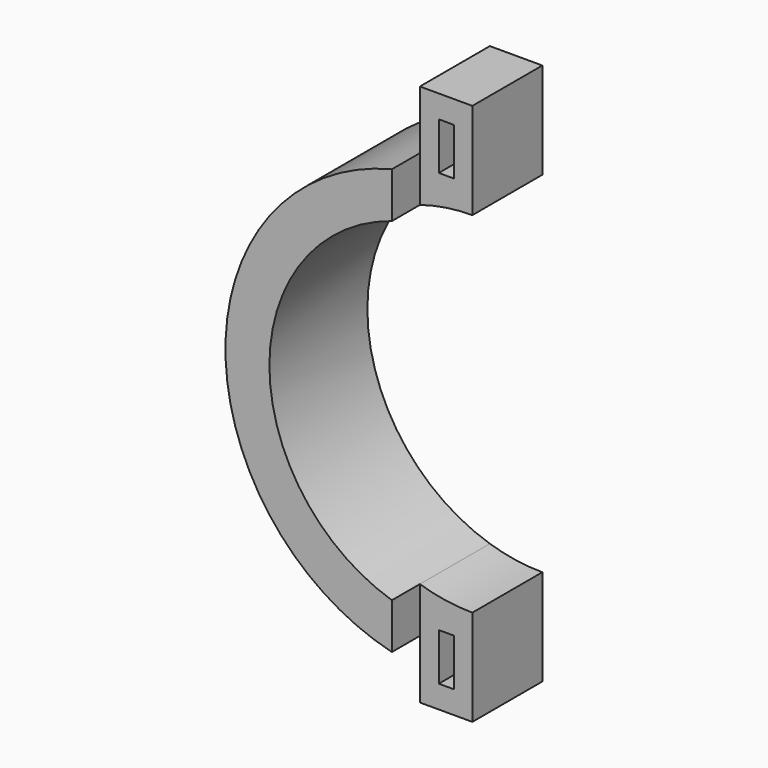
from build123d import *

# Parameters (mm, degrees)
F1_DEPTH = 12.7
F2_DEPTH = 17.78


with BuildPart() as f1:
    # F0 (on Front) → F1 (new body)
    with BuildSketch(Plane.XZ):
        with BuildLine():
            ThreePointArc((-7.62, 24.2300557169), (-3.8546455617, 25.1058102362), (0, 25.4))
            Line((0, 25.4), (0, 31.7809050116))
            ThreePointArc((0, 31.7809050116), (-1.3343592112, 31.7528803237), (-2.6663651224, 31.6688556849))
            Line((-2.6663651224, 31.6688556849), (-2.6663651224, 29.21))
            Line((-2.6663651224, 29.21), (-4.8713176511, 29.21))
            Line((-4.8713176511, 29.21), (-4.8713176511, 31.405352851))
            ThreePointArc((-4.8713176511, 31.405352851), (-6.251742675, 31.1599364069), (-7.62, 30.8538737172))
            Line((-7.62, 30.8538737172), (-7.62, 24.2300557169))
        make_face()
        with BuildLine():
            ThreePointArc((-7.62, -24.2300557169), (-25.400000003, 0), (-7.62, 24.2300557169))
            Line((-7.62, 24.2300557169), (-7.62, 30.8538737172))
            ThreePointArc((-7.62, 30.8538737172), (-31.7809050116, 0), (-7.62, -30.8538737172))
            Line((-7.62, -30.8538737172), (-7.62, -24.2300557169))
        make_face()
        with BuildLine():
            ThreePointArc((-2.6663651224, 31.6688556849), (-1.3343592112, 31.7528803237), (0, 31.7809050116))
            Line((0, 31.7809050116), (0, 39.37))
            Line((0, 39.37), (-7.62, 39.37))
            Line((-7.62, 39.37), (-7.62, 30.8538737172))
            ThreePointArc((-7.62, 30.8538737172), (-6.251742675, 31.1599364069), (-4.8713176511, 31.405352851))
            Line((-4.8713176511, 31.405352851), (-4.8713176511, 36.0698501384))
            Line((-4.8713176511, 36.0698501384), (-2.6663651224, 36.0698501384))
            Line((-2.6663651224, 36.0698501384), (-2.6663651224, 31.6688556849))
        make_face()
        with BuildLine():
            ThreePointArc((0, -25.4), (-3.8546455617, -25.1058102362), (-7.62, -24.2300557169))
            Line((-7.62, -24.2300557169), (-7.62, -30.8538737172))
            ThreePointArc((-7.62, -30.8538737172), (-6.251742675, -31.1599364069), (-4.8713176511, -31.405352851))
            Line((-4.8713176511, -31.405352851), (-4.8713176511, -29.21))
            Line((-4.8713176511, -29.21), (-2.6663651224, -29.21))
            Line((-2.6663651224, -29.21), (-2.6663651224, -31.6688556849))
            ThreePointArc((-2.6663651224, -31.6688556849), (-1.3343592112, -31.7528803237), (0, -31.7809050116))
            Line((0, -31.7809050116), (0, -25.4))
        make_face()
        with BuildLine():
            ThreePointArc((-4.8713176511, -31.405352851), (-6.251742675, -31.1599364069), (-7.62, -30.8538737172))
            Line((-7.62, -30.8538737172), (-7.62, -39.37))
            Line((-7.62, -39.37), (0, -39.37))
            Line((0, -39.37), (0, -31.7809050116))
            ThreePointArc((0, -31.7809050116), (-1.3343592112, -31.7528803237), (-2.6663651224, -31.6688556849))
            Line((-2.6663651224, -31.6688556849), (-2.6663651224, -36.0698501384))
            Line((-2.6663651224, -36.0698501384), (-4.8713176511, -36.0698501384))
            Line((-4.8713176511, -36.0698501384), (-4.8713176511, -31.405352851))
        make_face()
        with BuildLine():
            ThreePointArc((-7.62, -24.2300557169), (-25.400000003, 0), (-7.62, 24.2300557169))
            Line((-7.62, 24.2300557169), (-7.62, 30.8538737172))
            ThreePointArc((-7.62, 30.8538737172), (-31.7809050116, 0), (-7.62, -30.8538737172))
            Line((-7.62, -30.8538737172), (-7.62, -24.2300557169))
        make_face()
    extrude(amount=F1_DEPTH)

    # F0 (on Front) → F2 (join)
    with BuildSketch(Plane.XZ):
        with BuildLine():
            ThreePointArc((-7.62, -24.2300557169), (-25.400000003, 0), (-7.62, 24.2300557169))
            Line((-7.62, 24.2300557169), (-7.62, 30.8538737172))
            ThreePointArc((-7.62, 30.8538737172), (-31.7809050116, 0), (-7.62, -30.8538737172))
            Line((-7.62, -30.8538737172), (-7.62, -24.2300557169))
        make_face()
    extrude(amount=F2_DEPTH)


solid = f1.part
